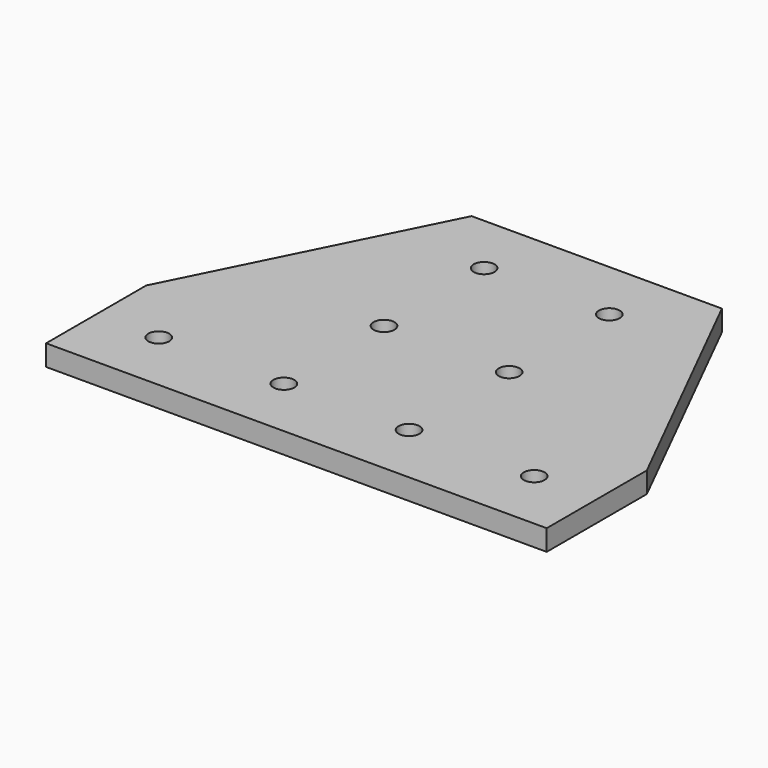
from build123d import *

# Parameters (mm, degrees)
F1_DEPTH = 6.35
F2_D     = 6.35


with BuildPart() as f1:
    # F0 (on Top) → F1 (new body)
    with BuildSketch(Plane.XY):
        Polygon((0, 38.1), (0, 0), (152.4, 0), (152.4, 38.1), (114.3, 114.3), (38.1, 114.3), align=None)
    extrude(amount=-F1_DEPTH)

    # F2 (through all)
    with Locations(Plane.XY):
        with Locations((57.15, 95.25), (95.25, 95.25), (95.25, 57.15), (57.15, 57.15), (19.05, 19.05), (57.15, 19.05), (95.25, 19.05), (133.35, 19.05)):
            Hole(F2_D / 2)


solid = f1.part
